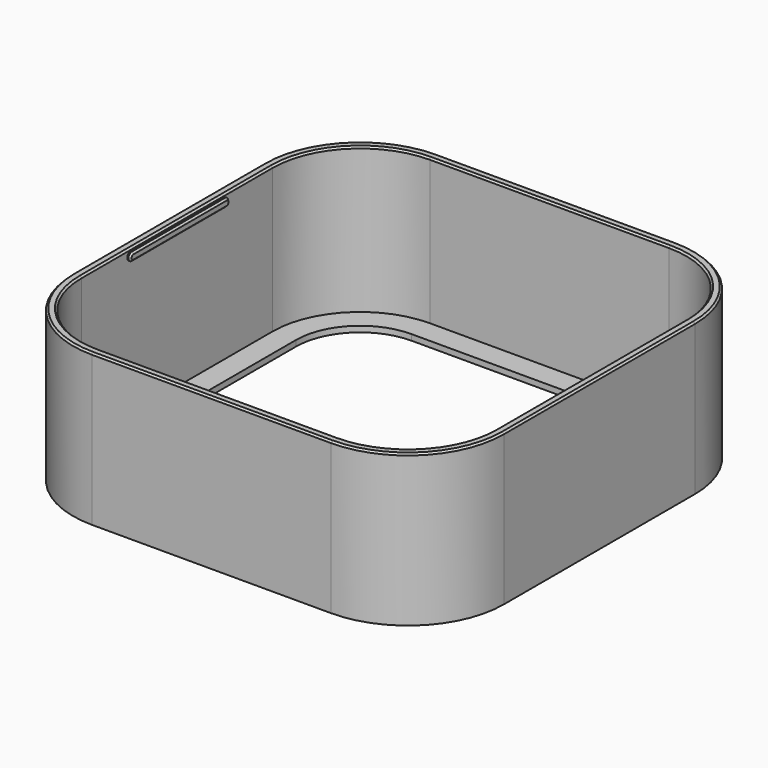
from build123d import *

# Parameters (mm, degrees)
PAD_DEPTH       = 1
PAD001_DEPTH    = 26
POCKET_DEPTH    = 25
POCKET001_DEPTH = 1.001
PAD002_DEPTH    = 0.5
CHAMFER_SIZE    = 0.3
CHAMFER001_SIZE = 0.3
CHAMFER002_SIZE = 0.3
CHAMFER003_SIZE = 0.3


with BuildPart() as part:
    # Sketch → Pad (new body)
    with BuildSketch(Plane.XY):
        with BuildLine():
            Line((-35.5, 20.5), (-35.5, -20.5))
            ThreePointArc((-35.5, -20.5), (-31.106602, -31.106602), (-20.5, -35.5))
            Line((-20.5, -35.5), (20.5, -35.5))
            ThreePointArc((20.5, -35.5), (31.106602, -31.106602), (35.5, -20.5))
            Line((35.5, -20.5), (35.5, 20.5))
            ThreePointArc((35.5, 20.5), (31.106602, 31.106602), (20.5, 35.5))
            Line((20.5, 35.5), (-20.5, 35.5))
            ThreePointArc((-20.5, 35.5), (-31.106602, 31.106602), (-35.5, 20.5))
        make_face()
    extrude(amount=PAD_DEPTH)

    # Sketch001 → Pad001 (join)
    with BuildSketch(Plane.XY):
        with BuildLine():
            Line((-37, 20.5), (-37, -20.5))
            ThreePointArc((-37, -20.5), (-32.167262, -32.167262), (-20.5, -37))
            Line((-20.5, -37), (20.5, -37))
            ThreePointArc((20.5, -37), (32.167262, -32.167262), (37, -20.5))
            Line((37, -20.5), (37, 20.5))
            ThreePointArc((37, 20.5), (32.167262, 32.167262), (20.5, 37))
            Line((20.5, 37), (-20.5, 37))
            ThreePointArc((-20.5, 37), (-32.167262, 32.167262), (-37, 20.5))
        make_face()
    extrude(amount=PAD001_DEPTH)

    # Sketch002 → Pocket (cut)
    with BuildSketch(Plane.XY.offset(1)):
        with BuildLine():
            Line((-35.5, 20.5), (-35.5, -20.5))
            ThreePointArc((-35.5, -20.5), (-31.106602, -31.106602), (-20.5, -35.5))
            Line((-20.5, -35.5), (20.5, -35.5))
            ThreePointArc((20.5, -35.5), (31.106602, -31.106602), (35.5, -20.5))
            Line((35.5, -20.5), (35.5, 20.5))
            ThreePointArc((35.5, 20.5), (31.106602, 31.106602), (20.5, 35.5))
            Line((20.5, 35.5), (-20.5, 35.5))
            ThreePointArc((-20.5, 35.5), (-31.106602, 31.106602), (-35.5, 20.5))
        make_face()
    extrude(amount=POCKET_DEPTH, mode=Mode.SUBTRACT)

    # Sketch003 (on Face19 of Pocket) → Pocket001 (cut, through all)
    with BuildSketch(Plane.XY.offset(1)):
        with BuildLine():
            Line((-31.5, 20.5), (-31.5, -20.5))
            ThreePointArc((-31.5, -20.5), (-28.278175, -28.278175), (-20.5, -31.5))
            Line((-20.5, -31.5), (20.5, -31.5))
            ThreePointArc((20.5, -31.5), (28.278175, -28.278175), (31.5, -20.5))
            Line((31.5, -20.5), (31.5, 20.5))
            ThreePointArc((31.5, 20.5), (28.278175, 28.278175), (20.5, 31.5))
            Line((20.5, 31.5), (-20.5, 31.5))
            ThreePointArc((-20.5, 31.5), (-28.278175, 28.278175), (-31.5, 20.5))
        make_face()
    extrude(amount=-POCKET001_DEPTH, mode=Mode.SUBTRACT)

    # Sketch004 (on Face19 of Pocket001) → Pad002 (join)
    with BuildSketch(Plane.YZ.offset(-35.5)):
        with BuildLine():
            ThreePointArc((-10, 25.5), (-10.7, 24.8), (-10, 24.1))
            Line((-10, 24.1), (10, 24.1))
            ThreePointArc((10, 24.1), (10.7, 24.8), (10, 25.5))
            Line((-10, 25.5), (10, 25.5))
        make_face()
    pad002 = extrude(amount=PAD002_DEPTH)

    # Mirrored: Pad002 across YZ
    add(pad002.mirror(Plane.YZ))

    # Chamfer
    chamfer_edges = [part.edges().sort_by_distance(p)[0] for p in [
        (-35, 0, 25.5),
    ]]
    chamfer(chamfer_edges, length=CHAMFER_SIZE)

    # Chamfer001
    chamfer001_edges = [part.edges().sort_by_distance(p)[0] for p in [
        (35, 0, 25.5),
    ]]
    chamfer(chamfer001_edges, length=CHAMFER001_SIZE)

    # Chamfer002
    chamfer002_edges = [part.edges().sort_by_distance(p)[0] for p in [
        (0, -35.5, 26),
    ]]
    chamfer(chamfer002_edges, length=CHAMFER002_SIZE)

    # Chamfer003
    chamfer003_edges = [part.edges().sort_by_distance(p)[0] for p in [
        (37, 0, 26),
    ]]
    chamfer(chamfer003_edges, length=CHAMFER003_SIZE)


solid = part.part
